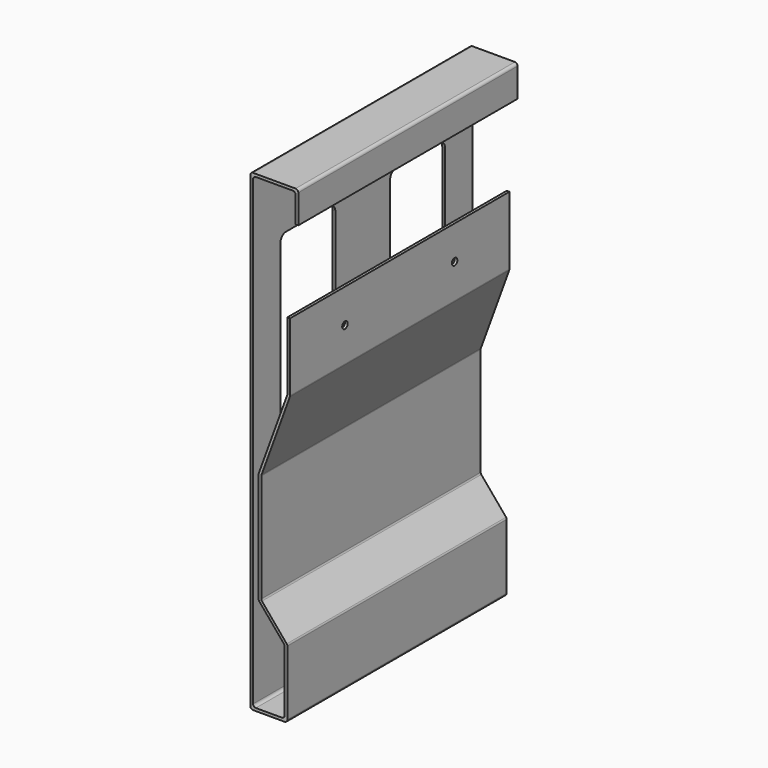
from build123d import *

# Parameters (mm, degrees)
F1_DEPTH = 200
F2_R     = 2
F4_DEPTH = 4
F6_D     = 5
F6_DEPTH = 2


with BuildPart() as f1:
    # F0 (on Front) → F1 (new body)
    with BuildSketch(Plane.XZ):
        Polygon((35, 0), (0, 0), (0, -345), (27, -345), (27, -295), (8, -272.356682), (8, -192.356682), (29, -134.659656), (29, -84.659656), (27, -84.659656), (27, -134.307002), (6, -192.004028), (6, -273.084622), (25, -295.72794), (25, -343), (2, -343), (2, -2), (33, -2), (33, -23), (35, -23), align=None)
    extrude(amount=F1_DEPTH)

    # F2
    f2_edges = [f1.edges().sort_by_distance(p)[0] for p in [
        (0, -100, 0),
        (35, -100, 0),
        (33, -100, -2),
        (2, -100, -2),
        (0, -100, -345),
        (2, -100, -343),
        (27, -100, -345),
        (25, -100, -343),
        (25, -100, -295.72794),
        (27, -100, -295),
        (8, -100, -272.356682),
        (6, -100, -273.084622),
        (6, -100, -192.004028),
        (8, -100, -192.356682),
        (29, -100, -134.659656),
        (27, -100, -134.307002),
    ]]
    fillet(f2_edges, radius=F2_R)

    # F3 (on face) → F4 (cut)
    with BuildSketch(Plane(origin=(0, 0, 0), x_dir=(0, -1, 0), z_dir=(-1, 0, 0))):
        with BuildLine():
            Line((70, -50), (30, -50))
            ThreePointArc((30, -50), (26.464466, -51.464466), (25, -55))
            Line((25, -55), (25, -290))
            ThreePointArc((25, -290), (26.464466, -293.535534), (30, -295))
            Line((30, -295), (70, -295))
            ThreePointArc((70, -295), (73.535534, -293.535534), (75, -290))
            Line((75, -290), (75, -55))
            ThreePointArc((75, -55), (73.535534, -51.464466), (70, -50))
        make_face()
        with BuildLine():
            ThreePointArc((130, -50), (126.464466, -51.464466), (125, -55))
            Line((125, -55), (125, -290))
            ThreePointArc((125, -290), (126.464466, -293.535534), (130, -295))
            Line((130, -295), (170, -295))
            ThreePointArc((170, -295), (173.535534, -293.535534), (175, -290))
            Line((175, -290), (175, -55))
            ThreePointArc((175, -55), (173.535534, -51.464466), (170, -50))
            Line((170, -50), (130, -50))
        make_face()
    extrude(amount=-F4_DEPTH, mode=Mode.SUBTRACT)

    # F6
    with Locations(Plane(origin=(27, 0, 0), x_dir=(0, -1, 0), z_dir=(-1, 0, 0))):
        with Locations((50, -109.307002), (150, -109.307002)):
            Hole(F6_D / 2, depth=F6_DEPTH)


solid = f1.part
